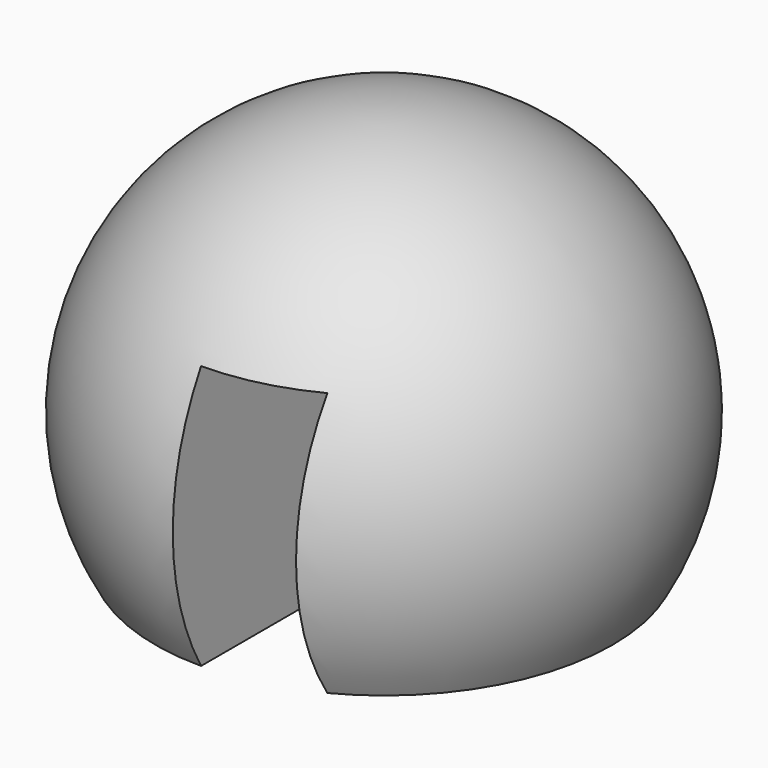
from build123d import *

# Parameters (mm, degrees)
F4_DEPTH = 15


with BuildPart() as f1:
    # F0 (on Front) → F1 (revolve)
    with BuildSketch(Plane.XZ):
        with BuildLine():
            Line((0, -5), (8.660254, -5))
            ThreePointArc((8.660254, -5), (8.660254, 5), (0, 10))
            Line((0, 10), (0, -5))
        make_face()
    revolve(axis=Axis((0, 0, -0.937037), (0, 0, -1)))

    # F3 (on offset) → F4 (cut)
    with BuildSketch(Plane.XY.offset(-10)):
        Polygon((-39.574545, 4), (-39.574545, 0), (0, 0), (0, -35.395372), (4, -35.395372), (4, 4), align=None)
    extrude(amount=F4_DEPTH, mode=Mode.SUBTRACT)


solid = f1.part
